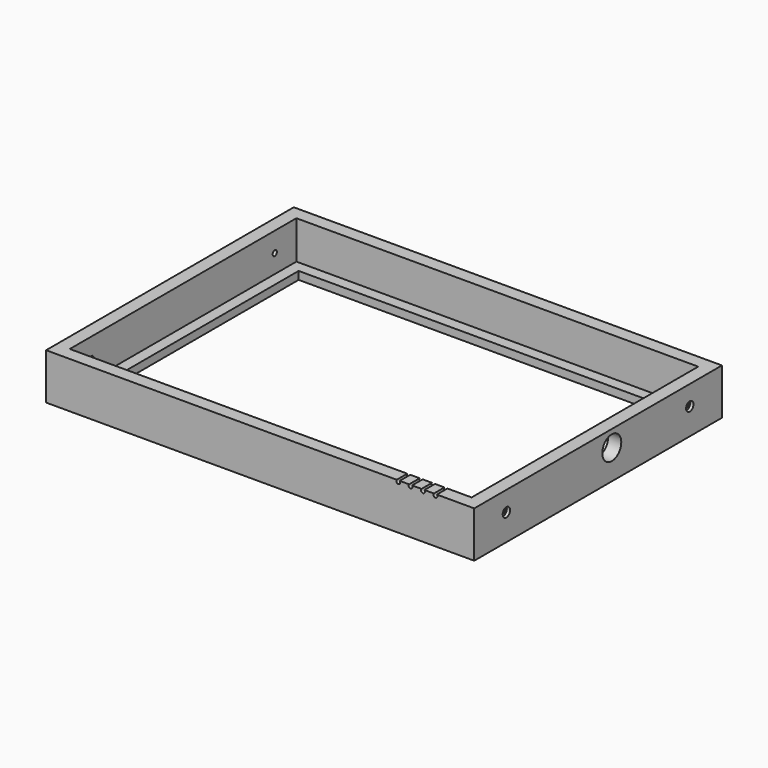
from build123d import *

# Parameters (mm, degrees)
CYLINDER027_R           = 3.5
CYLINDER027_DEPTH       = 3
CYLINDER027_PITCH_ANGLE = 90
CYLINDER026_R           = 2
CYLINDER026_DEPTH       = 9
CYLINDER026_PITCH_ANGLE = 90
ARRAY023_COUNT          = 2
ARRAY024_Y_COUNT        = 2
ARRAY024_Y_PITCH        = 174
CYLINDER011_R           = 9
CYLINDER011_DEPTH       = 12
CYLINDER011_PITCH_ANGLE = 90
CYLINDER010_R           = 1.5
CYLINDER010_DEPTH       = 11
ARRAY007_X_COUNT        = 4
ARRAY007_X_PITCH        = 9.4
ARRAY007_ROLL_ANGLE     = 90
BOX005_W                = 288
BOX005_H                = 198
BOX005_DEPTH            = 6
BOX004_W                = 325
BOX004_H                = 235
BOX004_DEPTH            = 6
BOX007_W                = 305
BOX007_H                = 215
BOX007_DEPTH            = 29
BOX006_W                = 325
BOX006_H                = 235
BOX006_DEPTH            = 29
CUT014_PLACEMENT_ANGLE  = 180


with BuildPart() as case_2_frame_cut005:
    # Cylinder027 → Cylinder027 (new body)
    with BuildSketch(Plane.XY):
        Circle(CYLINDER027_R)
    extrude(amount=CYLINDER027_DEPTH)


with BuildPart() as case_2_frame_cut005_1:
    # Cylinder027 pitch: moved
    add(case_2_frame_cut005.part.rotate(Axis((0, 0, 0), (0, 1, 0)), CYLINDER027_PITCH_ANGLE))


with BuildPart() as case_2_frame_cut005_2:
    # Cylinder027 placement: moved
    add(case_2_frame_cut005_1.part)


with BuildPart() as array024:
    # Cylinder026 → Cylinder026 (new body)
    with BuildSketch(Plane.XY):
        Circle(CYLINDER026_R)
    extrude(amount=CYLINDER026_DEPTH)


with BuildPart() as array024_1:
    # Cylinder026 pitch: moved
    add(array024.part.rotate(Axis((0, 0, 0), (0, 1, 0)), CYLINDER026_PITCH_ANGLE))


with BuildPart() as array024_2:
    # Cylinder026 placement: moved
    add(array024_1.part.moved(Location((3, 0, 0))))

    # Fusion021: union CASE_2_frame_cut005
    add(case_2_frame_cut005_2.part)


with BuildPart() as array024_3:
    # Fusion021 placement: moved
    add(array024_2.part.moved(Location((-163, 87, -14))))

    # Array023: Array024 ×2 about axis
    array023_axis = Axis((0, 87, 0), (0, 0, 1))


with BuildPart() as array024_4:
    add(array024_3.part)
    for i in range(1, ARRAY023_COUNT):
        add(array024_3.part.rotate(array023_axis, i * 360 / ARRAY023_COUNT))

    # Array024 Y: Array024 ×2


with BuildPart() as array024_5:
    add(array024_4.part)
    with Locations(*[(0, -i * ARRAY024_Y_PITCH, 0) for i in range(1, ARRAY024_Y_COUNT)]):
        add(array024_4.part)


with BuildPart() as array024_6:
    # Array024 placement: moved
    add(array024_5.part.moved(Location((0, 0, -30))))


with BuildPart() as case_2_frame_cut:
    # Cylinder011 → Cylinder011 (new body)
    with BuildSketch(Plane.XY):
        Circle(CYLINDER011_R)
    extrude(amount=CYLINDER011_DEPTH)


with BuildPart() as case_2_frame_cut_1:
    # Cylinder011 pitch: moved
    add(case_2_frame_cut.part.rotate(Axis((0, 0, 0), (0, 1, 0)), CYLINDER011_PITCH_ANGLE))


with BuildPart() as case_2_frame_cut_2:
    # Cylinder011 placement: moved
    add(case_2_frame_cut_1.part.moved(Location((151, 13, -41.5))))


with BuildPart() as obj1:
    # Cylinder010 → Cylinder010 (new body)
    with BuildSketch(Plane(origin=(-30, -25, 0), x_dir=(1, 0, 0), z_dir=(0, 0, 1))):
        Circle(CYLINDER010_R)
    extrude(amount=CYLINDER010_DEPTH)

    # Array007 X: obj1 ×4


with BuildPart() as obj1_1:
    add(obj1.part)
    with Locations(*[(i * ARRAY007_X_PITCH, 0, 0) for i in range(1, ARRAY007_X_COUNT)]):
        add(obj1.part)


with BuildPart() as obj1_2:
    # Array007 roll: moved
    add(obj1_1.part.rotate(Axis((0, 0, 0), (1, 0, 0)), ARRAY007_ROLL_ANGLE))


with BuildPart() as obj1_3:
    # Array007 placement: moved
    add(obj1_2.part.moved(Location((-103, -106.5, 55))))


with BuildPart() as obj2:
    # Box005 → Box005 (new body)
    with BuildSketch(Plane(origin=(-144, -99, 0), x_dir=(1, 0, 0), z_dir=(0, 0, 1))):
        with Locations((144, 99)):
            Rectangle(BOX005_W, BOX005_H)
    extrude(amount=BOX005_DEPTH)


with BuildPart() as case_2_frame_u001:
    # Box004 → Box004 (new body)
    with BuildSketch(Plane(origin=(-162.5, -117.5, 0), x_dir=(1, 0, 0), z_dir=(0, 0, 1))):
        with Locations((162.5, 117.5)):
            Rectangle(BOX004_W, BOX004_H)
    extrude(amount=BOX004_DEPTH)

    # Cut005: cut obj2
    add(obj2.part, mode=Mode.SUBTRACT)


with BuildPart() as case_2_frame_u001_1:
    # Cut005 placement: moved
    add(case_2_frame_u001.part.moved(Location((0, 0, 58))))


with BuildPart() as obj3:
    # Box007 → Box007 (new body)
    with BuildSketch(Plane(origin=(-152.5, -107.5, 0), x_dir=(1, 0, 0), z_dir=(0, 0, 1))):
        with Locations((152.5, 107.5)):
            Rectangle(BOX007_W, BOX007_H)
    extrude(amount=BOX007_DEPTH)


with BuildPart() as case_2_frame_back002:
    # Box006 → Box006 (new body)
    with BuildSketch(Plane(origin=(-162.5, -117.5, 0), x_dir=(1, 0, 0), z_dir=(0, 0, 1))):
        with Locations((162.5, 117.5)):
            Rectangle(BOX006_W, BOX006_H)
    extrude(amount=BOX006_DEPTH)

    # Cut006: cut obj3
    add(obj3.part, mode=Mode.SUBTRACT)


with BuildPart() as case_2_frame_back002_1:
    # Cut006 placement: moved
    add(case_2_frame_back002.part.moved(Location((0, 0, 29))))

    # Fusion018: union CASE_2_frame_u001
    add(case_2_frame_u001_1.part)

    # Cut014: cut obj1
    add(obj1_3.part, mode=Mode.SUBTRACT)


with BuildPart() as case_2_frame_back002_2:
    # Cut014 placement: moved
    add(case_2_frame_back002_1.part.rotate(Axis((0, 0, 0), (0, 1, 0)), CUT014_PLACEMENT_ANGLE))

    # Cut019: cut CASE_2_frame_cut
    add(case_2_frame_cut_2.part, mode=Mode.SUBTRACT)

    # Cut025: cut Array024
    add(array024_6.part, mode=Mode.SUBTRACT)


solid = case_2_frame_back002_2.part
